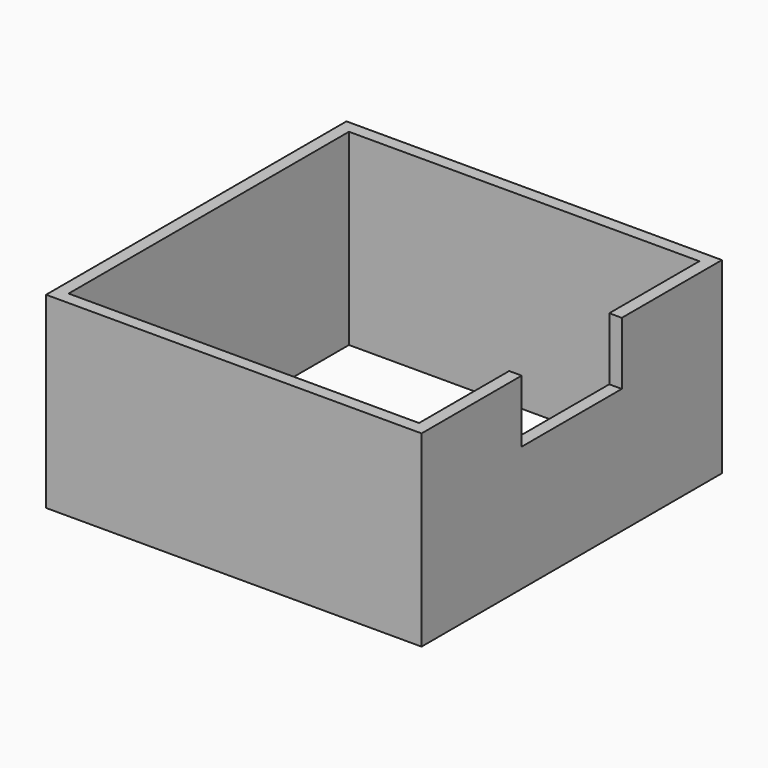
from build123d import *

# Parameters (mm, degrees)
F0_W     = 30
F0_H     = 30
F0_W_2   = 28
F0_H_2   = 28
F1_DEPTH = 15
F2_W     = 10
F2_H     = 5
F3_DEPTH = 25


with BuildPart() as f1:
    # F0 (on Top) → F1 (new body)
    with BuildSketch(Plane.XY):
        Rectangle(F0_W, F0_H)
        Rectangle(F0_W_2, F0_H_2, mode=Mode.SUBTRACT)
    extrude(amount=F1_DEPTH)

    # F2 (on face) → F3 (cut)
    with BuildSketch(Plane.YZ.offset(15)):
        with Locations((0, 17.5)):
            Rectangle(F2_W, F2_H)
        with Locations((0, 12.5)):
            Rectangle(F2_W, F2_H)
    extrude(amount=-F3_DEPTH, mode=Mode.SUBTRACT)


solid = f1.part
